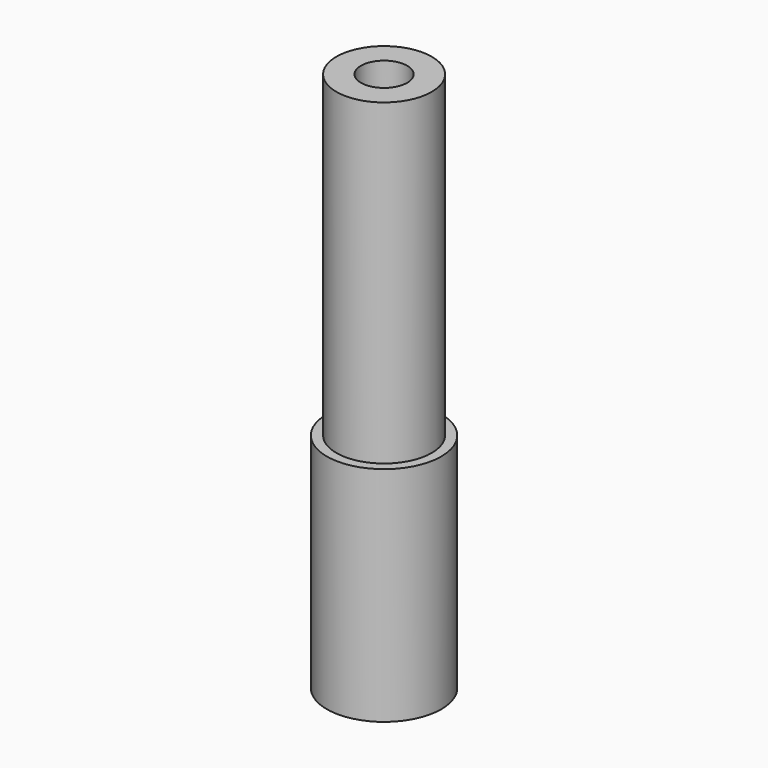
from build123d import *

# Parameters (mm, degrees)
F0_R     = 4.572
F1_DEPTH = 17.78
F2_R     = 3.81
F3_DEPTH = 25.4
F5_DEPTH = 43.181
F6_R     = 1.847521
F7_DEPTH = 5.08


with BuildPart() as f1:
    # F0 (on Top) → F1 (new body)
    with BuildSketch(Plane.XY):
        Circle(F0_R)
    extrude(amount=F1_DEPTH)

    # F2 (on face) → F3 (join)
    with BuildSketch(Plane.XY.offset(17.78)):
        Circle(F2_R)
    extrude(amount=F3_DEPTH)

    # F4 (on face) → F5 (cut, through all)
    with BuildSketch(Plane.XY.offset(43.18)):
        Polygon((0.897986, -1.614606), (1.847283, -0.029624), (0.949297, 1.584982), (-0.897986, 1.614606), (-1.847283, 0.029624), (-0.949297, -1.584982), align=None)
    extrude(amount=-F5_DEPTH, mode=Mode.SUBTRACT)

    # F6 (on face) → F7 (cut)
    with BuildSketch(Plane.XY.offset(43.18)):
        Circle(F6_R)
    extrude(amount=-F7_DEPTH, mode=Mode.SUBTRACT)


solid = f1.part
